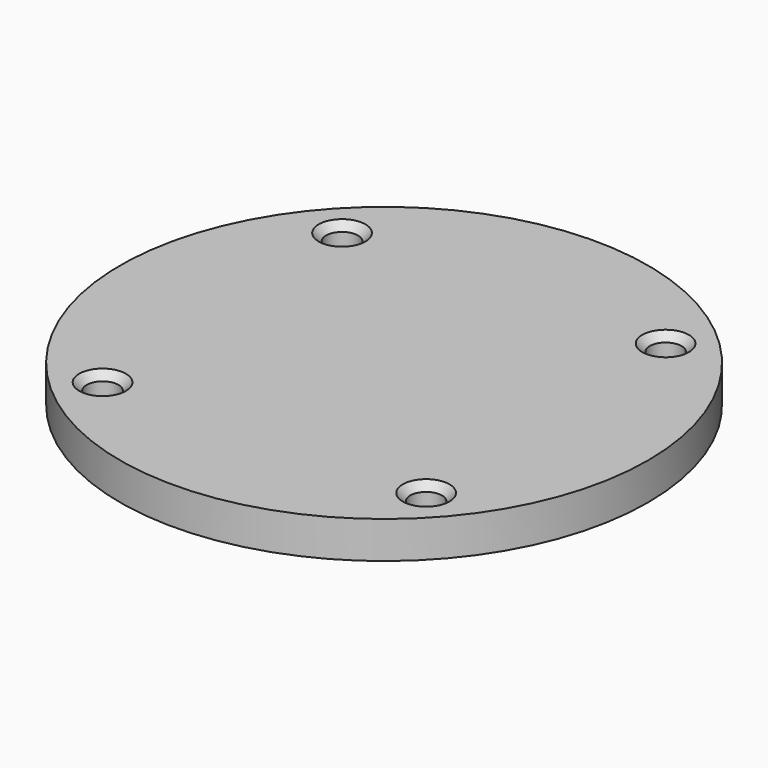
from build123d import *

# Parameters (mm, degrees)
SKETCH_R           = 35.625
PAD_DEPTH          = 5
SKETCH001_R        = 2.15
POCKET_DEPTH       = 5
POLARPATTERN_COUNT = 4
CHAMFER_SIZE       = 1


with BuildPart() as part:
    # Sketch → Pad (new body)
    with BuildSketch(Plane.XY):
        Circle(SKETCH_R)
    extrude(amount=PAD_DEPTH)

    # Sketch001 → Pocket (cut)
    with BuildSketch(Plane.XY):
        with Locations((-21.995853, 20.40055)):
            Circle(SKETCH001_R)
    pocket = extrude(amount=POCKET_DEPTH, mode=Mode.SUBTRACT)

    # PolarPattern: Pocket ×4 about axis
    polarpattern_axis = Axis((0, 0, 0), (0, 0, 1))
    for i in range(1, POLARPATTERN_COUNT):
        add(pocket.rotate(polarpattern_axis, i * 360 / POLARPATTERN_COUNT), mode=Mode.SUBTRACT)

    # Chamfer
    chamfer_edges = [part.edges().sort_by_distance(p)[0] for p in [
        (24.145853, -20.40055, 5),
        (20.40055, 24.145853, 5),
        (-24.145853, 20.40055, 5),
        (-20.40055, -24.145853, 5),
    ]]
    chamfer(chamfer_edges, length=CHAMFER_SIZE)


solid = part.part
